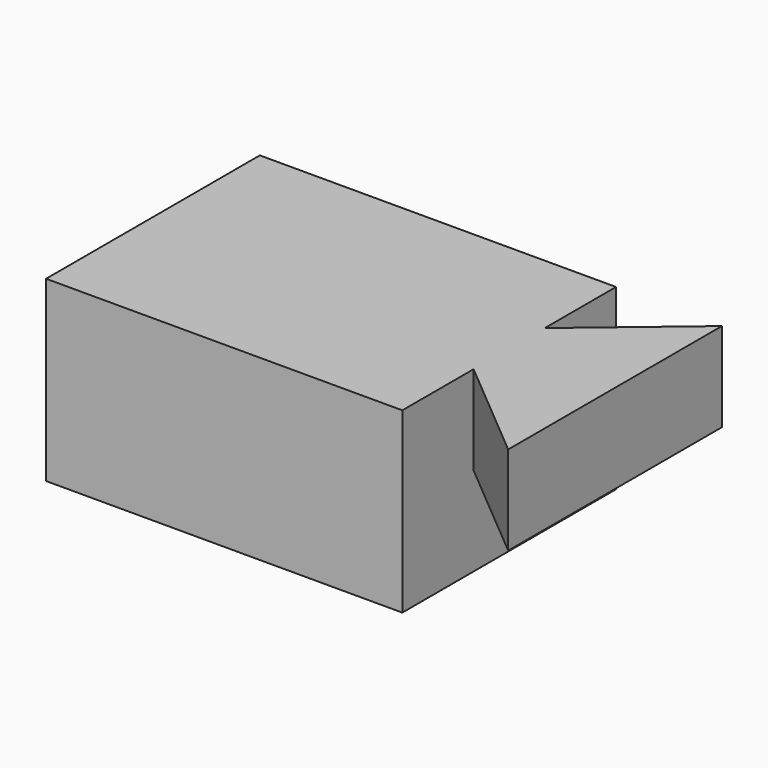
from build123d import *

# Parameters (mm, degrees)
F0_W     = 101.6
F0_H     = 76.2
F1_DEPTH = 50.8
F3_DEPTH = 25.4


with BuildPart() as f1:
    # F0 (on Top) → F1 (new body)
    with BuildSketch(Plane.XY):
        with Locations((50.8, 38.1)):
            Rectangle(F0_W, F0_H)
    extrude(amount=F1_DEPTH)

    # F2 (on face) → F3 (join)
    with BuildSketch(Plane.XY.offset(50.8)):
        Polygon((101.6, 50.8), (101.6, 25.4), (131.798387, 0), (131.798387, 76.2), align=None)
    extrude(amount=-F3_DEPTH)


solid = f1.part
